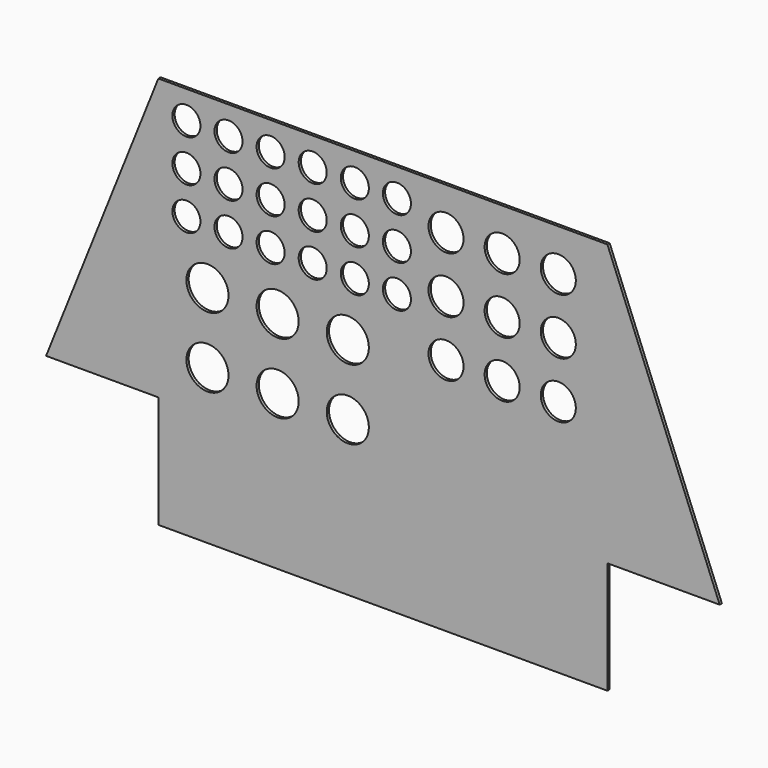
from build123d import *

# Parameters (mm, degrees)
F0_R     = 19.05
F0_R_2   = 12.7
F0_R_3   = 15.875
F1_DEPTH = 2.54


with BuildPart() as f1:
    # F0 (on Front) → F1 (new body)
    with BuildSketch(Plane.XZ):
        Polygon((304.8, -127), (203.2, 127), (-203.2, 127), (-304.8, -127), (-203.2, -127), (-203.2, -228.6), (203.2, -228.6), (203.2, -127), align=None)
        with Locations((-158.75, -88.9)):
            Circle(F0_R, mode=Mode.SUBTRACT)
        with Locations((-95.25, -88.9)):
            Circle(F0_R, mode=Mode.SUBTRACT)
        with Locations((-31.75, -88.9)):
            Circle(F0_R, mode=Mode.SUBTRACT)
        with Locations((-158.75, -25.4)):
            Circle(F0_R, mode=Mode.SUBTRACT)
        with Locations((-177.8, 25.4)):
            Circle(F0_R_2, mode=Mode.SUBTRACT)
        with Locations((-95.25, -25.4)):
            Circle(F0_R, mode=Mode.SUBTRACT)
        with Locations((-31.75, -25.4)):
            Circle(F0_R, mode=Mode.SUBTRACT)
        with Locations((-139.7, 25.4)):
            Circle(F0_R_2, mode=Mode.SUBTRACT)
        with Locations((-101.6, 25.4)):
            Circle(F0_R_2, mode=Mode.SUBTRACT)
        with Locations((-63.5, 25.4)):
            Circle(F0_R_2, mode=Mode.SUBTRACT)
        with Locations((-25.4, 25.4)):
            Circle(F0_R_2, mode=Mode.SUBTRACT)
        with Locations((-177.8, 63.5)):
            Circle(F0_R_2, mode=Mode.SUBTRACT)
        with Locations((-177.8, 101.6)):
            Circle(F0_R_2, mode=Mode.SUBTRACT)
        with Locations((-139.7, 63.5)):
            Circle(F0_R_2, mode=Mode.SUBTRACT)
        with Locations((-101.6, 63.5)):
            Circle(F0_R_2, mode=Mode.SUBTRACT)
        with Locations((-63.5, 63.5)):
            Circle(F0_R_2, mode=Mode.SUBTRACT)
        with Locations((-25.4, 63.5)):
            Circle(F0_R_2, mode=Mode.SUBTRACT)
        with Locations((-139.7, 101.6)):
            Circle(F0_R_2, mode=Mode.SUBTRACT)
        with Locations((-101.6, 101.6)):
            Circle(F0_R_2, mode=Mode.SUBTRACT)
        with Locations((-63.5, 101.6)):
            Circle(F0_R_2, mode=Mode.SUBTRACT)
        with Locations((-25.4, 101.6)):
            Circle(F0_R_2, mode=Mode.SUBTRACT)
        with Locations((57.15, -12.7)):
            Circle(F0_R_3, mode=Mode.SUBTRACT)
        with Locations((107.95, -12.7)):
            Circle(F0_R_3, mode=Mode.SUBTRACT)
        with Locations((12.7, 25.4)):
            Circle(F0_R_2, mode=Mode.SUBTRACT)
        with Locations((158.75, -12.7)):
            Circle(F0_R_3, mode=Mode.SUBTRACT)
        with Locations((57.15, 38.1)):
            Circle(F0_R_3, mode=Mode.SUBTRACT)
        with Locations((12.7, 63.5)):
            Circle(F0_R_2, mode=Mode.SUBTRACT)
        with Locations((107.95, 38.1)):
            Circle(F0_R_3, mode=Mode.SUBTRACT)
        with Locations((12.7, 101.6)):
            Circle(F0_R_2, mode=Mode.SUBTRACT)
        with Locations((57.15, 88.9)):
            Circle(F0_R_3, mode=Mode.SUBTRACT)
        with Locations((107.95, 88.9)):
            Circle(F0_R_3, mode=Mode.SUBTRACT)
        with Locations((158.75, 38.1)):
            Circle(F0_R_3, mode=Mode.SUBTRACT)
        with Locations((158.75, 88.9)):
            Circle(F0_R_3, mode=Mode.SUBTRACT)
    extrude(amount=F1_DEPTH)


solid = f1.part
